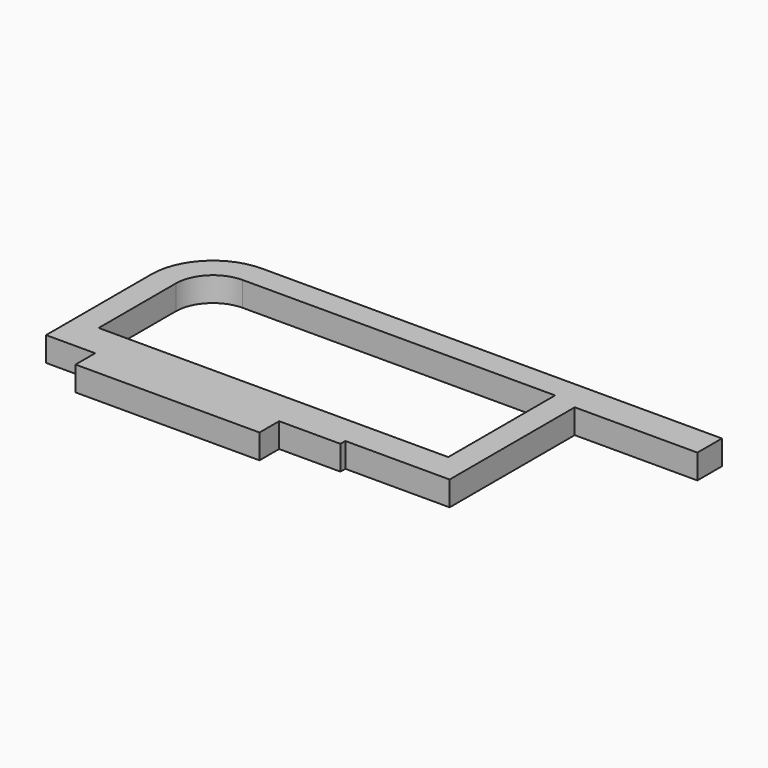
from build123d import *

# Parameters (mm, degrees)
PAD_DEPTH = 4


with BuildPart() as part:
    # Sketch002 → Pad (new body)
    with BuildSketch(Plane.XY):
        with BuildLine():
            Line((65, 31.5), (-10, 31.5))
            ThreePointArc((-10, 31.5), (-17.071068, 28.571068), (-20, 21.5))
            Line((-20, 21.5), (-20, 0))
            Line((-12, 0), (-20, 0))
            Line((-12, -4), (-12, 0))
            Line((18, -4), (-12, -4))
            Line((18, -4), (18, 0))
            Line((28, 0), (18, 0))
            Line((28, 0), (28, 1))
            Line((28, 1), (45, 1))
            Line((45, 1), (45, 26.5))
            Line((45, 26.5), (65, 26.5))
            Line((65, 26.5), (65, 31.5))
        make_face()
        with BuildLine():
            Line((-16, 21.5), (-16, 5.715926))
            Line((-16, 5.715926), (0, 5.715926))
            Line((0, 5.715926), (35, 5.715926))
            Line((35, 5.715926), (41, 5.715926))
            Line((41, 5.715926), (41, 27.5))
            Line((41, 27.5), (-10, 27.5))
            ThreePointArc((-10, 27.5), (-14.223161, 25.723161), (-16, 21.5))
        make_face(mode=Mode.SUBTRACT)
    extrude(amount=PAD_DEPTH)


solid = part.part
